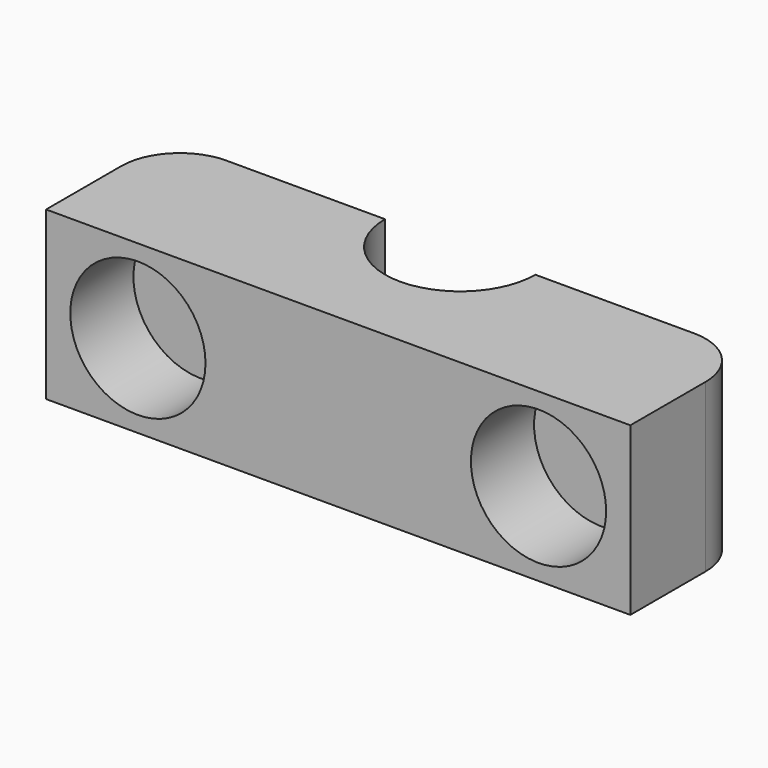
from build123d import *

# Parameters (mm, degrees)
F0_W     = 70
F0_H     = 18.273093
F1_DEPTH = 20
F3_R     = 8.1
F4_DEPTH = 10
F5_R     = 9
F6_DEPTH = 25
F7_R     = 7


with BuildPart() as f1:
    # F0 (on Top) → F1 (new body)
    with BuildSketch(Plane.XY):
        with Locations((0, -0.321428)):
            Rectangle(F0_W, F0_H)
    extrude(amount=F1_DEPTH)

    # F3 (on offset) → F4 (cut)
    with BuildSketch(Plane.XZ.offset(10)):
        with Locations((-24, 10)):
            Circle(F3_R)
        with Locations((24, 10)):
            Circle(F3_R)
    extrude(amount=-F4_DEPTH, mode=Mode.SUBTRACT)

    # F5 (on Top) → F6 (cut)
    with BuildSketch(Plane.XY):
        with Locations((0, 8.815118)):
            Circle(F5_R)
    extrude(amount=F6_DEPTH, mode=Mode.SUBTRACT)

    # F7
    f7_edges = [f1.edges().sort_by_distance(p)[0] for p in [
        (35, 8.815118, 10),
        (-35, 8.815118, 10),
    ]]
    fillet(f7_edges, radius=F7_R)


solid = f1.part
